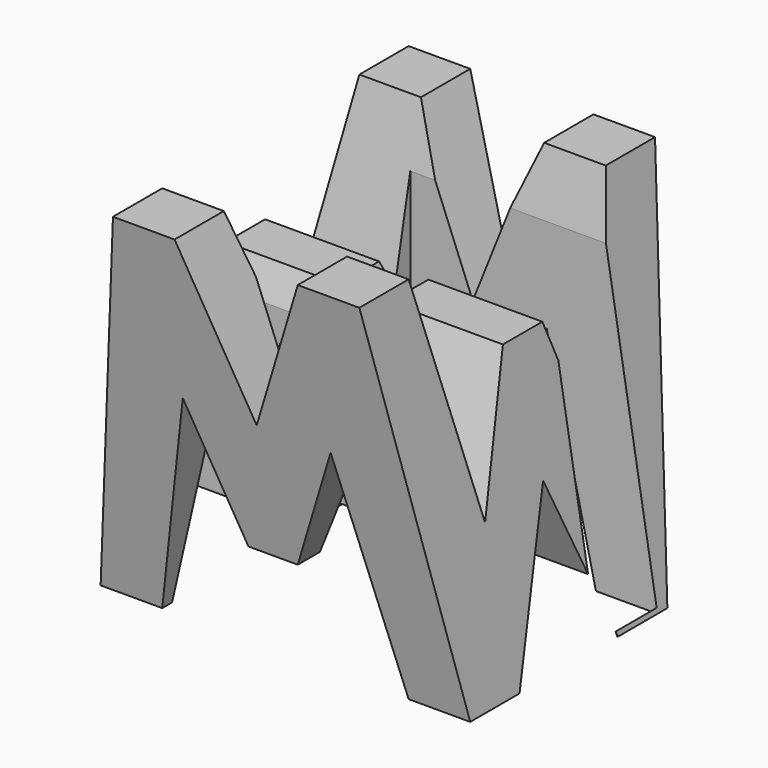
from build123d import *

# Parameters (mm, degrees)
F0_W      = 38.1
F0_H      = 38.1
F1_DEPTH  = 38.1
F7_DEPTH  = 58.42
F8_DEPTH  = 38.1
F9_W      = 25.4
F9_H      = 7.62
F10_DEPTH = 63.5


with BuildPart() as f1:
    # F0 (on Front) → F1 (new body)
    with BuildSketch(Plane.XZ):
        Rectangle(F0_W, F0_H)
    extrude(amount=F1_DEPTH)

    # F5 (on offset) → F7 (cut)
    with BuildSketch(Plane.YZ.offset(38.1)):
        Polygon((-11.43, -5.783536), (-6.35, 19.05), (-31.75, 19.05), (-26.67, -3.85385), (-21.59, 9.525), (-16.51, 9.525), align=None)
        Polygon((-6.35, -19.05), (0, -19.05), (0, 19.05), align=None)
        Polygon((-25.4, -19.05), (-12.7, -19.05), (-19.05, -3.175), align=None)
        Polygon((-38.1, -19.05), (-31.75, -19.05), (-38.1, 19.05), align=None)
    extrude(amount=-F7_DEPTH, mode=Mode.SUBTRACT)

    # F6 (on offset) → F8 (cut)
    with BuildSketch(Plane.XZ.offset(38.1)):
        Polygon((6.35, 19.05), (-6.35, 19.05), (0, 3.175), align=None)
        Polygon((19.05, 19.05), (12.7, 19.05), (19.05, -19.05), align=None)
        Polygon((-7.62, 3.175), (-12.7, -19.05), (12.7, -19.05), (7.62, 3.175), (2.54, -9.507036), (-2.54, -9.507036), align=None)
        Polygon((-12.7, 19.05), (-19.05, 19.05), (-19.05, -19.05), align=None)
    extrude(amount=-F8_DEPTH, mode=Mode.SUBTRACT)

    # F9 (on offset) → F10 (cut)
    with BuildSketch(Plane.XY.offset(38.1)):
        with Locations((6.264115, -11.43)):
            Rectangle(F9_W, F9_H)
        with Locations((-6.435885, -26.67)):
            Rectangle(F9_W, F9_H)
    extrude(amount=-F10_DEPTH, mode=Mode.SUBTRACT)


solid = f1.part
